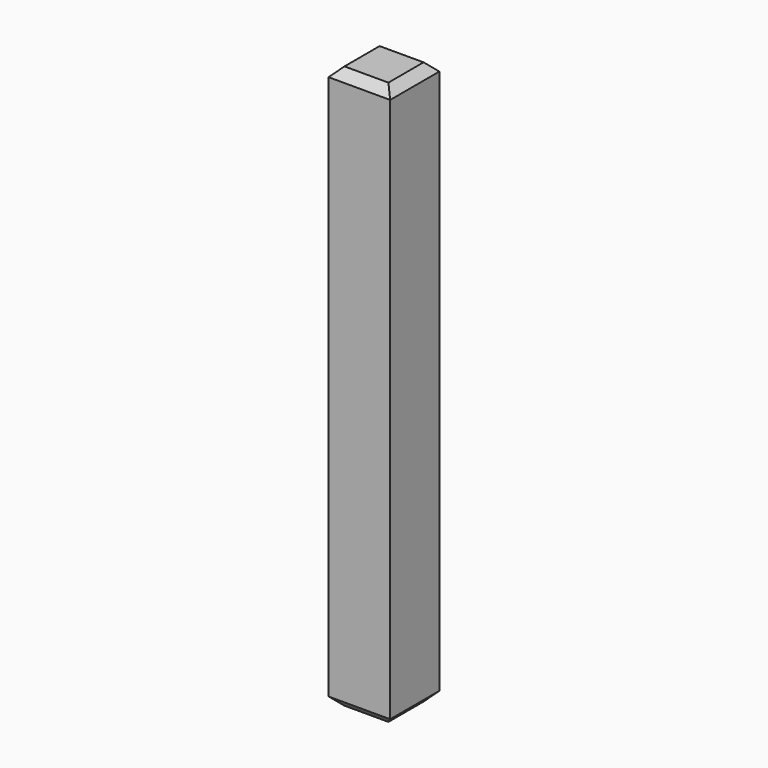
from build123d import *

# Parameters (mm, degrees)
F0_W     = 7
F0_H     = 64
F1_DEPTH = 7
F2_SIZE  = 1


with BuildPart() as f1:
    # F0 (on Front) → F1 (new body)
    with BuildSketch(Plane.XZ):
        Rectangle(F0_W, F0_H)
    extrude(amount=F1_DEPTH)

    # F2
    f2_edges = [f1.edges().sort_by_distance(p)[0] for p in [
        (0, -7, 32),
        (3.5, -3.5, 32),
        (0, 0, 32),
        (-3.5, -3.5, 32),
        (3.5, -3.5, -32),
        (0, -7, -32),
        (-3.5, -3.5, -32),
        (0, 0, -32),
    ]]
    chamfer(f2_edges, length=F2_SIZE)


solid = f1.part
